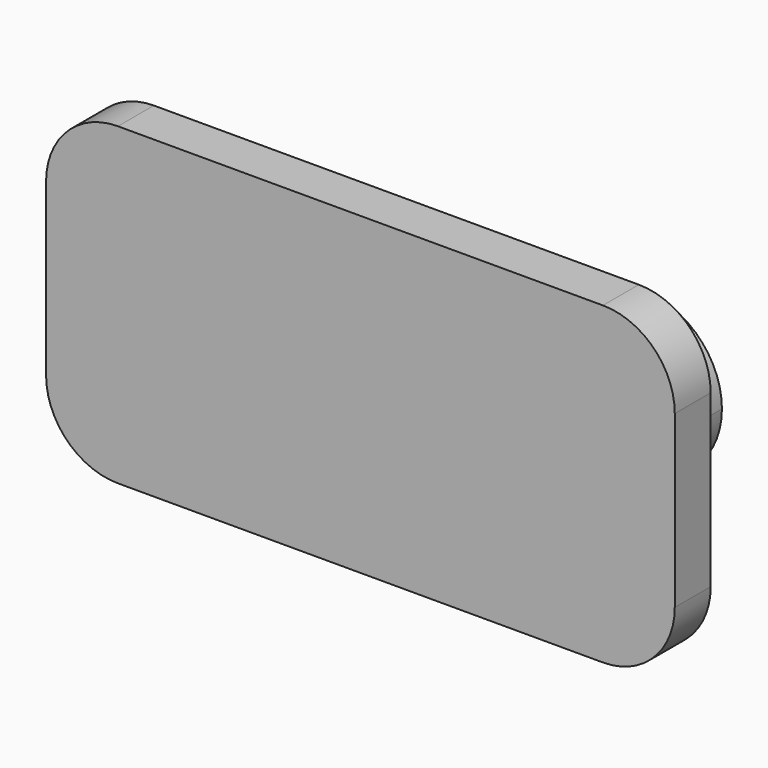
from build123d import *

# Parameters (mm, degrees)
F0_W     = 140
F0_H     = 70
F1_DEPTH = 10
F2_R     = 16
F4_DEPTH = 25


with BuildPart() as f1:
    # F0 (on Front) → F1 (new body)
    with BuildSketch(Plane.XZ):
        with Locations((70, 35)):
            Rectangle(F0_W, F0_H)
    extrude(amount=F1_DEPTH)

    # F2
    f2_edges = [f1.edges().sort_by_distance(p)[0] for p in [
        (0, -5, 0),
        (140, -5, 0),
        (140, -5, 70),
        (0, -5, 70),
    ]]
    fillet(f2_edges, radius=F2_R)

    # F3 (on face) → F4 (join)
    with BuildSketch(Plane(origin=(0, 0, 0), x_dir=(-1, 0, 0), z_dir=(0, 1, 0))):
        with BuildLine():
            ThreePointArc((-105, 47.5), (-96.1611652352, 43.8388347648), (-92.5, 35))
            Line((-92.5, 35), (-87.5, 35))
            ThreePointArc((-87.5, 35), (-87.5449306601, 36.2532175939), (-87.6794919243, 37.5))
            ThreePointArc((-87.6794919243, 37.5), (-93.5435607626, 48.2287565553), (-105, 52.5))
            Line((-105, 52.5), (-105, 47.5))
        make_face()
        with BuildLine():
            ThreePointArc((-117.5, 35), (-113.8388347648, 43.8388347648), (-105, 47.5))
            Line((-105, 47.5), (-105, 52.5))
            ThreePointArc((-105, 52.5), (-117.3743686708, 47.3743686708), (-122.5, 35))
            Line((-122.5, 35), (-117.5, 35))
        make_face()
        with BuildLine():
            Line((-105, 17.5), (-105, 22.5))
            ThreePointArc((-105, 22.5), (-113.8388347648, 26.1611652352), (-117.5, 35))
            Line((-117.5, 35), (-122.5, 35))
            ThreePointArc((-122.5, 35), (-117.3743686708, 22.6256313292), (-105, 17.5))
        make_face()
        with BuildLine():
            Line((-87.5, 35), (-92.5, 35))
            ThreePointArc((-92.5, 35), (-96.1611652352, 26.1611652352), (-105, 22.5))
            Line((-105, 22.5), (-105, 17.5))
            ThreePointArc((-105, 17.5), (-93.5435607626, 21.7712434447), (-87.6794919243, 32.5))
            ThreePointArc((-87.6794919243, 32.5), (-87.5449306601, 33.7467824061), (-87.5, 35))
        make_face()
        with BuildLine():
            ThreePointArc((-52.3205080757, 37.5), (-52.4550693399, 36.2532175939), (-52.5, 35))
            Line((-52.5, 35), (-47.5, 35))
            ThreePointArc((-47.5, 35), (-35, 47.5), (-22.5, 35))
            Line((-22.5, 35), (-17.5, 35))
            ThreePointArc((-17.5, 35), (-33.7467824061, 52.4550693399), (-52.3205080757, 37.5))
        make_face()
        with BuildLine():
            Line((-47.5, 35), (-52.5, 35))
            ThreePointArc((-52.5, 35), (-52.4550693399, 33.7467824061), (-52.3205080757, 32.5))
            ThreePointArc((-52.3205080757, 32.5), (-33.7467824061, 17.5449306601), (-17.5, 35))
            Line((-17.5, 35), (-22.5, 35))
            ThreePointArc((-22.5, 35), (-35, 22.5), (-47.5, 35))
        make_face()
        with BuildLine():
            ThreePointArc((-87.6794919243, 37.5), (-87.5449306601, 36.2532175939), (-87.5, 35))
            Line((-87.5, 35), (-52.5, 35))
            ThreePointArc((-52.5, 35), (-52.4550693399, 36.2532175939), (-52.3205080757, 37.5))
            Line((-52.3205080757, 37.5), (-70, 37.5))
            Line((-70, 37.5), (-87.6794919243, 37.5))
        make_face()
        with BuildLine():
            Line((-52.5, 35), (-87.5, 35))
            ThreePointArc((-87.5, 35), (-87.5449306601, 33.7467824061), (-87.6794919243, 32.5))
            Line((-87.6794919243, 32.5), (-70, 32.5))
            Line((-70, 32.5), (-52.3205080757, 32.5))
            ThreePointArc((-52.3205080757, 32.5), (-52.4550693399, 33.7467824061), (-52.5, 35))
        make_face()
    extrude(amount=F4_DEPTH)


solid = f1.part
